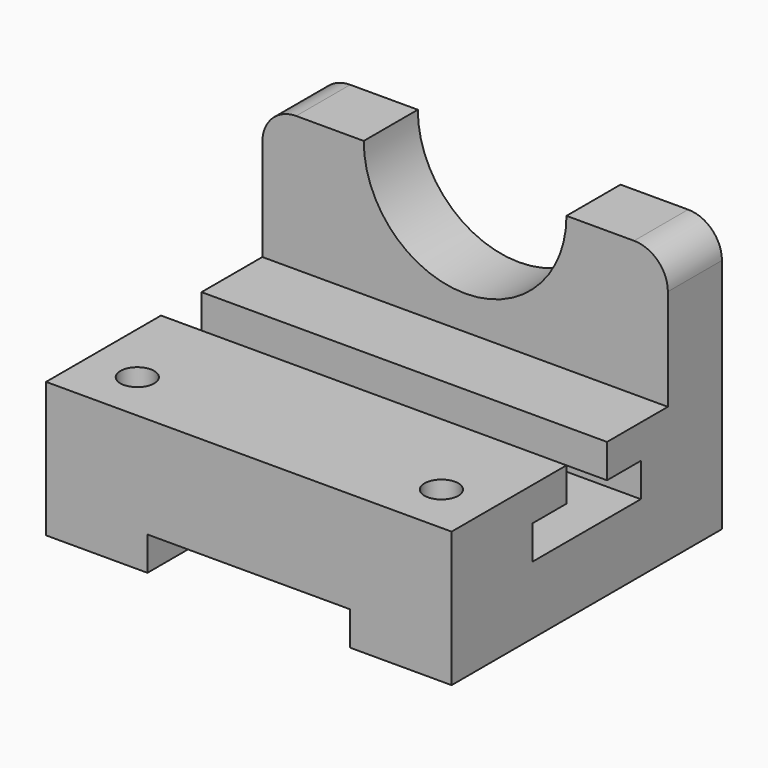
from build123d import *

# Parameters (mm, degrees)
F1_DEPTH = 152.4
F2_R     = 12.7
F4_DEPTH = 25.4
F5_W     = 76.2
F5_H     = 12.7
F6_DEPTH = 127.001
F7_R     = 6.35
F8_DEPTH = 50.801


with BuildPart() as f1:
    # F0 (on Right) → F1 (new body)
    with BuildSketch(Plane.YZ):
        Polygon((53.975, 0), (0, 0), (0, -50.8), (127, -50.8), (127, 50.8), (101.6, 50.8), (101.6, 0), (73.025, 0), (73.025, -12.7), (88.9, -12.7), (88.9, -25.4), (38.1, -25.4), (38.1, -12.7), (53.975, -12.7), align=None)
    extrude(amount=F1_DEPTH)

    # F2
    f2_edges = [f1.edges().sort_by_distance(p)[0] for p in [
        (152.4, 114.3, 50.8),
        (0, 114.3, 50.8),
    ]]
    fillet(f2_edges, radius=F2_R)

    # F3 (on face) → F4 (cut)
    with BuildSketch(Plane.XZ.offset(-101.6)):
        with BuildLine():
            ThreePointArc((38.1, 50.8), (76.2, 12.7), (114.3, 50.8))
            Line((114.3, 50.8), (38.1, 50.8))
        make_face()
    extrude(amount=-F4_DEPTH, mode=Mode.SUBTRACT)

    # F5 (on face) → F6 (cut, through all)
    with BuildSketch(Plane.XZ):
        with Locations((76.2, -44.45)):
            Rectangle(F5_W, F5_H)
    extrude(amount=-F6_DEPTH, mode=Mode.SUBTRACT)

    # F7 (on face) → F8 (cut, through all)
    with BuildSketch(Plane.XY):
        with Locations((19.05, 19.05)):
            Circle(F7_R)
        with Locations((133.35, 19.05)):
            Circle(F7_R)
    extrude(amount=-F8_DEPTH, mode=Mode.SUBTRACT)


solid = f1.part
